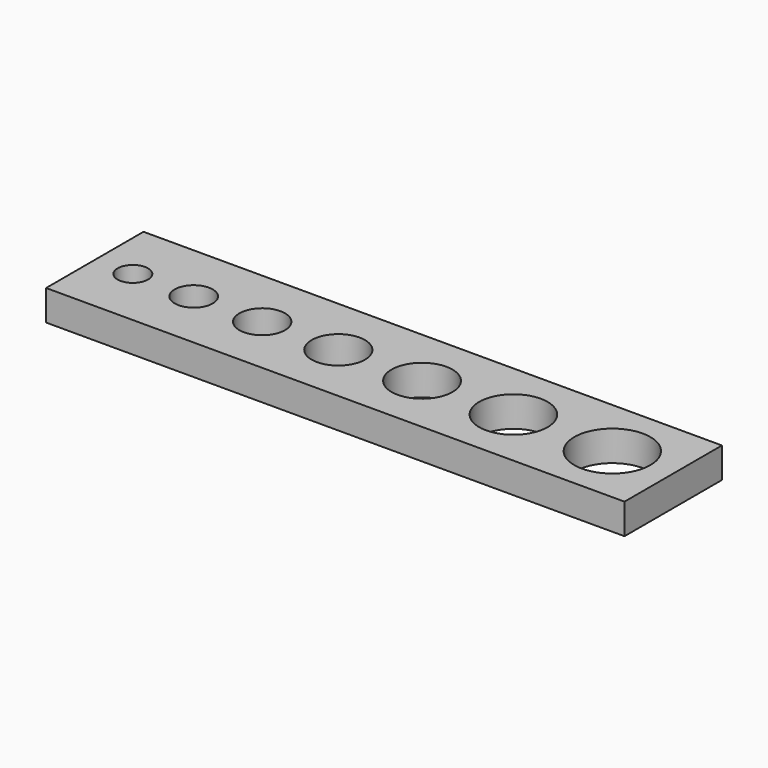
from build123d import *

# Parameters (mm, degrees)
F0_W     = 38
F0_H     = 8
F0_R     = 1
F0_R_2   = 1.25
F0_R_3   = 1.5
F0_R_4   = 1.75
F0_R_5   = 2
F0_R_6   = 2.25
F0_R_7   = 2.5
F1_DEPTH = 2


with BuildPart() as f1:
    # F0 (on Top) → F1 (new body)
    with BuildSketch(Plane.XY):
        with Locations((-2.5, 0)):
            Rectangle(F0_W, F0_H)
        with Locations((-19, 0)):
            Circle(F0_R, mode=Mode.SUBTRACT)
        with Locations((-15, 0)):
            Circle(F0_R_2, mode=Mode.SUBTRACT)
        with Locations((-10.5, 0)):
            Circle(F0_R_3, mode=Mode.SUBTRACT)
        with Locations((-5.5, 0)):
            Circle(F0_R_4, mode=Mode.SUBTRACT)
        Circle(F0_R_5, mode=Mode.SUBTRACT)
        with Locations((6, 0)):
            Circle(F0_R_6, mode=Mode.SUBTRACT)
        with Locations((12.5, 0)):
            Circle(F0_R_7, mode=Mode.SUBTRACT)
    extrude(amount=F1_DEPTH)


solid = f1.part
